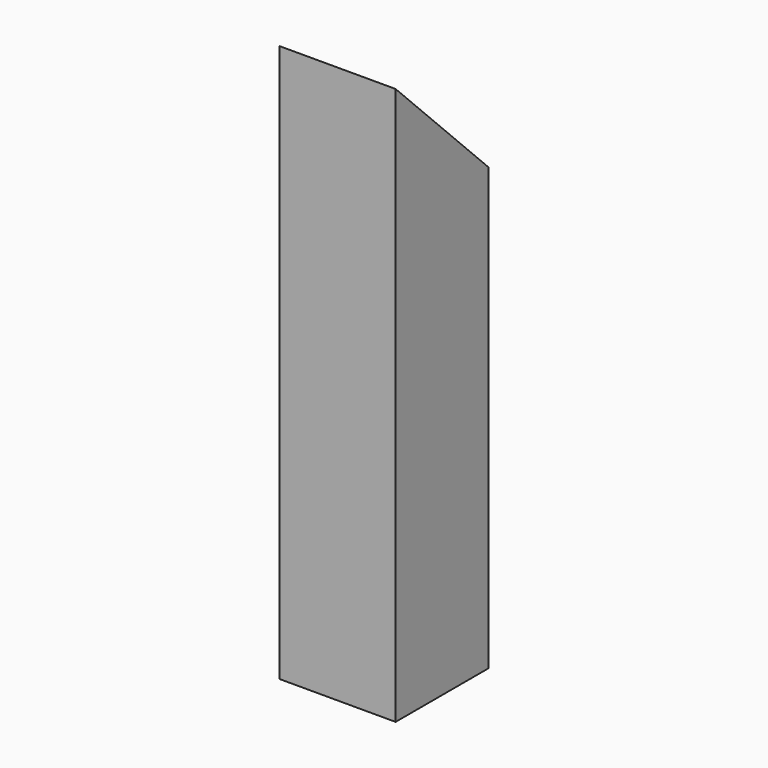
from build123d import *

# Parameters (mm, degrees)
SKETCH_W     = 31.75
SKETCH_H     = 31.75
SKETCH_W_2   = 26.2128
SKETCH_H_2   = 26.2128
PAD_DEPTH    = 152.4
POCKET_DEPTH = 31.75


with BuildPart() as part:
    # Sketch → Pad (new body)
    with BuildSketch(Plane.XY):
        Rectangle(SKETCH_W, SKETCH_H)
        Rectangle(SKETCH_W_2, SKETCH_H_2, mode=Mode.SUBTRACT)
    extrude(amount=PAD_DEPTH)

    # Sketch001 → Pocket (cut)
    with BuildSketch(Plane.YZ.offset(15.875)):
        Polygon((-15.875, 152.4), (15.875, 152.4), (15.875, 120.65), align=None)
    extrude(amount=-POCKET_DEPTH, mode=Mode.SUBTRACT)


solid = part.part
